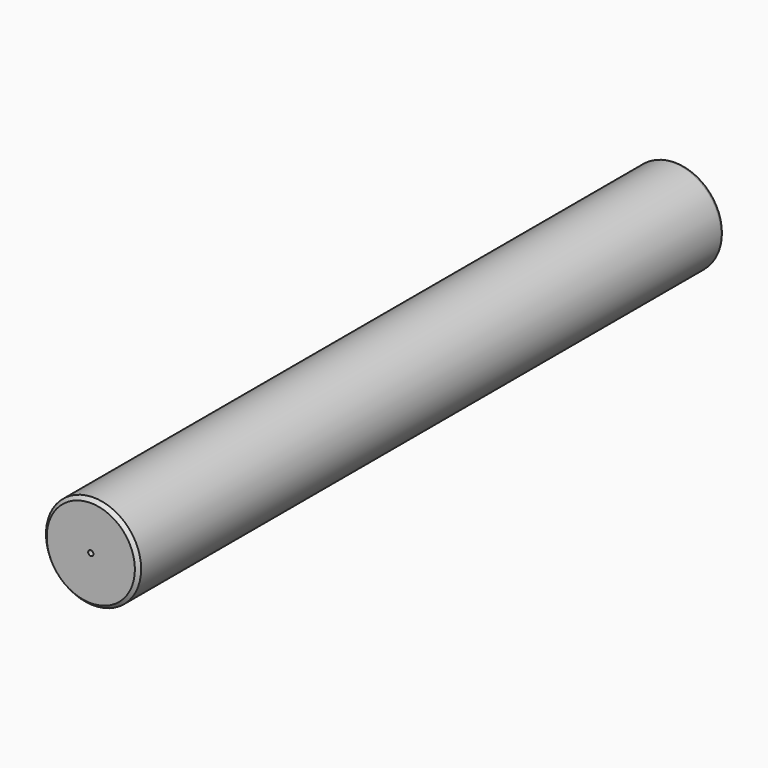
from build123d import *

# Parameters (mm, degrees)
F0_R     = 82.559423
F0_R_2   = 4.557666
F1_DEPTH = 635
F2_R     = 6
F3_SIZE  = 6


with BuildPart() as f1:
    # F0 (on Front) → F1 (new body, symmetric)
    with BuildSketch(Plane.XZ):
        Circle(F0_R)
        Circle(F0_R_2, mode=Mode.SUBTRACT)
    extrude(amount=F1_DEPTH, both=True)

    # F2
    f2_edges = [f1.edges().sort_by_distance(p)[0] for p in [
        (-82.559423, 635, 0),
        (-4.557666, 635, 0),
    ]]
    fillet(f2_edges, radius=F2_R)

    # F3
    f3_edges = [f1.edges().sort_by_distance(p)[0] for p in [
        (-82.559423, -635, 0),
    ]]
    chamfer(f3_edges, length=F3_SIZE)


solid = f1.part
